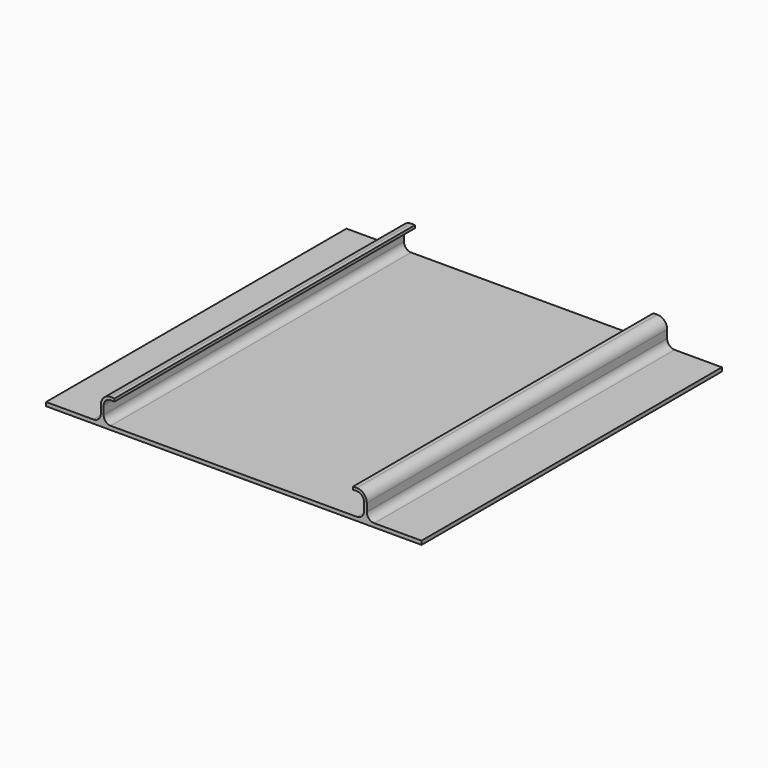
from build123d import *

# Parameters (mm, degrees)
F1_DEPTH = 400


with BuildPart() as f1:
    # F0 (on Front) → F1 (new body)
    with BuildSketch(Plane.XZ):
        with BuildLine():
            Line((-103.557974, -56.594891), (-140.819733, -56.594891))
            ThreePointArc((-140.819733, -56.594891), (-140.834136, -56.594905), (-140.848538, -56.594891))
            ThreePointArc((-140.848538, -56.594891), (-146.318086, -54.211179), (-148.31709, -48.589611))
            Line((-148.31709, -48.589611), (-148.31709, -40.039665))
            ThreePointArc((-148.31709, -40.039665), (-146.120392, -34.736367), (-140.817094, -32.539669))
            Line((-140.817094, -32.539669), (-136.722556, -32.539669))
            Line((-136.722556, -32.539669), (-136.722556, -29.539669))
            Line((-136.722556, -29.539669), (-140.817094, -29.539669))
            ThreePointArc((-140.817094, -29.539669), (-148.241712, -32.615047), (-151.31709, -40.039665))
            Line((-151.31709, -40.039665), (-151.31709, -48.496935))
            ThreePointArc((-151.31709, -48.496935), (-151.324869, -48.653976), (-151.330295, -48.811115))
            ThreePointArc((-151.330295, -48.811115), (-153.747489, -54.327682), (-159.327372, -56.594891))
            Line((-159.327372, -56.594891), (-209.665096, -56.594891))
            Line((-209.665096, -56.594891), (-209.665096, -60.594891))
            Line((-209.665096, -60.594891), (-9.665096, -60.594891))
            Line((-9.665096, -60.594891), (190.334904, -60.594891))
            Line((190.334904, -60.594891), (190.334904, -56.594891))
            Line((190.334904, -56.594891), (139.997181, -56.594891))
            ThreePointArc((139.997181, -56.594891), (134.417297, -54.327682), (132.000103, -48.811115))
            ThreePointArc((132.000103, -48.811115), (131.994677, -48.653976), (131.986898, -48.496935))
            Line((131.986898, -48.496935), (131.986898, -40.039665))
            ThreePointArc((131.986898, -40.039665), (128.911521, -32.615047), (121.486903, -29.539669))
            Line((121.486903, -29.539669), (117.392364, -29.539669))
            Line((117.392364, -29.539669), (117.392364, -32.539669))
            Line((117.392364, -32.539669), (121.486903, -32.539669))
            ThreePointArc((121.486903, -32.539669), (126.7902, -34.736367), (128.986898, -40.039665))
            Line((128.986898, -40.039665), (128.986898, -48.589611))
            ThreePointArc((128.986898, -48.589611), (126.987895, -54.211179), (121.518346, -56.594891))
            ThreePointArc((121.518346, -56.594891), (121.503944, -56.594905), (121.489541, -56.594891))
            Line((121.489541, -56.594891), (84.227782, -56.594891))
            Line((84.227782, -56.594891), (31.486903, -56.594891))
            Line((31.486903, -56.594891), (-9.665096, -56.594891))
            Line((-9.665096, -56.594891), (-50.817094, -56.594891))
            Line((-50.817094, -56.594891), (-59.151821, -56.594891))
            Line((-59.151821, -56.594891), (-103.557974, -56.594891))
        make_face()
    extrude(amount=F1_DEPTH)


solid = f1.part
